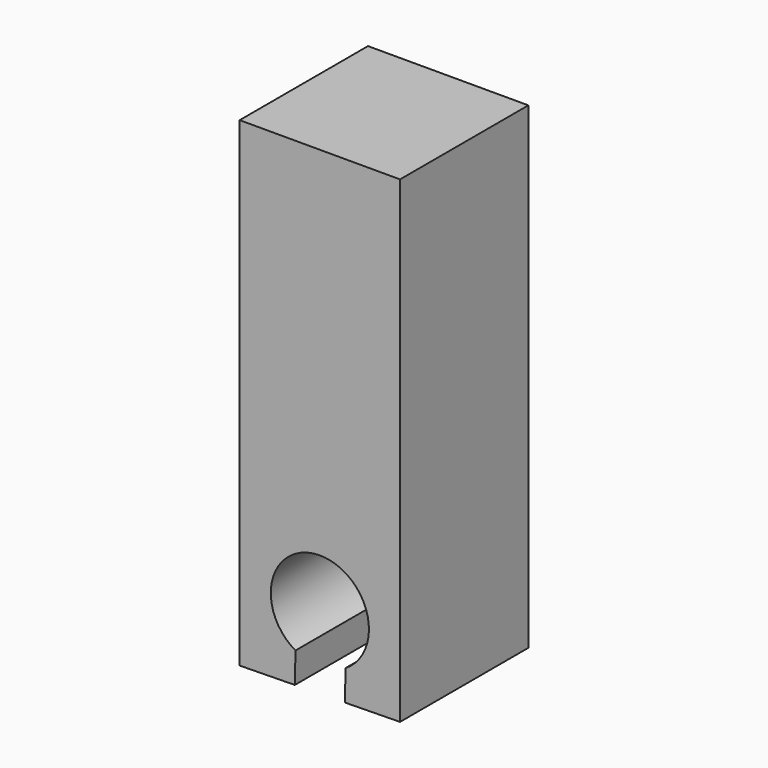
from build123d import *

# Parameters (mm, degrees)
F1_DEPTH = 50


with BuildPart() as f1:
    # F0 (on Front) → F1 (new body)
    with BuildSketch(Plane.XZ):
        with BuildLine():
            Line((33.008534, 10.347258), (32.810526, 0.825341))
            Line((32.810526, 0.825341), (49.995198, 1.100471))
            Line((49.995198, 1.100471), (49.995198, 150))
            Line((49.995198, 150), (0, 150))
            Line((0, 150), (0, 0.300038))
            Line((0, 0.300038), (17.201957, 0.575445))
            Line((17.201957, 0.575445), (17.400121, 10.104875))
            ThreePointArc((17.400121, 10.104875), (24.762435, 38.682031), (33.008534, 10.347258))
        make_face()
    extrude(amount=F1_DEPTH)


solid = f1.part
